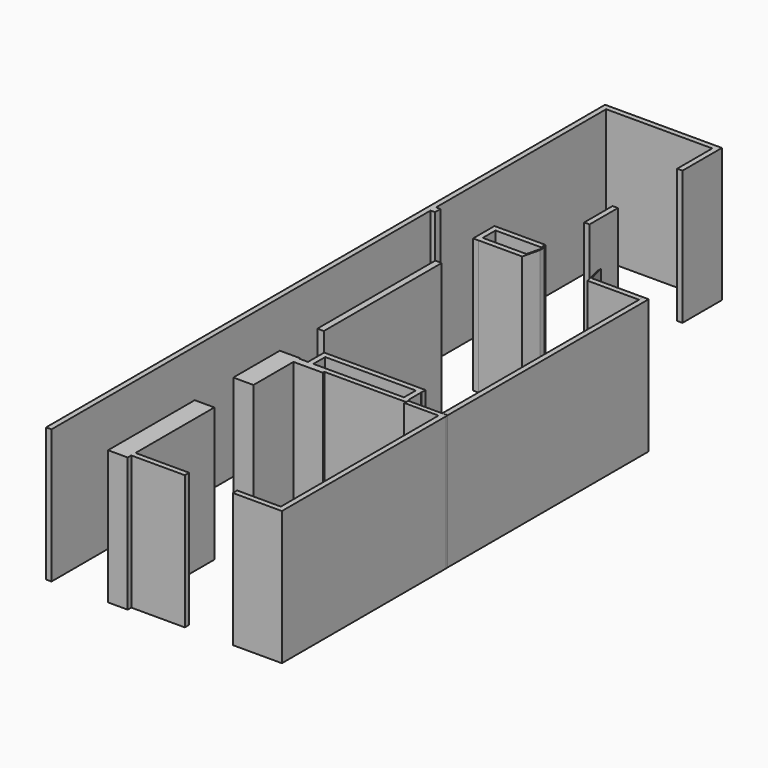
from build123d import *

# Parameters (mm, degrees)
F0_W     = 0.9822489917
F0_H     = 1
F0_W_2   = 1
F0_H_2   = 39.6854430437
F0_W_3   = 0.8165633082
F0_H_3   = 1.2549050152
F0_W_4   = 1.0076368451
F0_H_4   = 88.427413255
F1_DEPTH = 25
F0_W_5   = 8.1607067734
F0_W_6   = 9.6052740701
F0_H_5   = 46.8777269125
F0_W_7   = 1.2060105801
F0_H_6   = 27.5101391599
F0_H_7   = 6.6097080708
F0_H_8   = 2.7701912224
F0_W_8   = 0.1297352612
F0_H_9   = 0.4526546001
F0_W_9   = 0.9778391793
F0_H_10  = 0.0009115074
F0_H_11  = 36.779815495
F0_W_10  = 9.9911410362
F0_W_11  = 2.5544827804


with BuildPart() as f1:
    # F0 (on Top) → F1 (new body)
    with BuildSketch(Plane.XY):
        Polygon((-25.935596019, 68.5887262225), (-26.9178450108, 68.5887262225), (-26.935596019, 68.5887262225), (-26.935596019, 60.3826455772), (-25.935596019, 60.3826455772), align=None)
        Polygon((-26.935596019, 68.5887262225), (-26.9178450108, 68.5887262225), (-26.9178450108, 69.5887262225), (-46.7308796942, 69.5887262225), (-46.7308796942, 68.5887262225), align=None)
        with Locations((-26.4267205149, 69.0887262225)):
            Rectangle(F0_W, F0_H)
        Polygon((-46.7374978364, 68.5887262225), (-46.7308796942, 68.5887262225), (-46.7308796942, 69.5887262225), (-47.7374978364, 69.5887262225), (-47.7374978364, 68.5887262225), align=None)
        with Locations((-47.2374978364, 48.7460047007)):
            Rectangle(F0_W_2, F0_H_2)
        Polygon((-46.7374978364, 27.6483781636), (-46.7374978364, 28.9032831788), (-47.7374978364, 28.9032831788), (-47.7451346815, 28.9032831788), (-47.7451346815, 27.6483781636), align=None)
        with Locations((-46.3292161822, 28.2758306712)):
            Rectangle(F0_W_3, F0_H_3)
        with Locations((-47.2413162589, -16.5653284639)):
            Rectangle(F0_W_4, F0_H_4)
    extrude(amount=F1_DEPTH)


with BuildPart() as f1b:
    # F0 (on Top) → F1, piece 2 (new body)
    with BuildSketch(Plane.XY):
        Polygon((-26.9095953554, 29.6416189522), (-36.4152640104, 29.6416189522), (-36.4152640104, 28.6416189522), (-35.4152640104, 28.6416189522), (-26.9095953554, 28.6416189522), align=None)
        Polygon((-35.4152640104, 28.6416189522), (-36.4152640104, 28.6416189522), (-36.4152640104, 24.6393531561), (-35.4152640104, 24.6393531561), (-35.4152640104, 24.658517912), (-35.4152640104, 25.658517912), align=None)
        with Locations((-31.3349106237, 25.158517912)):
            Rectangle(F0_W_5, F0_H)
        Polygon((-26.4879707247, 28.8592035174), (-27.254557237, 25.658517912), (-27.254557237, 24.658517912), (-26.4879707247, 27.8592035174), align=None)
    extrude(amount=F1_DEPTH)


with BuildPart() as f1c:
    # F0 (on Top) → F1, piece 3 (new body)
    with BuildSketch(Plane.XY):
        Polygon((-15.8707499504, 28.8592035174), (-15.8707499504, 27.8592035174), (-15.051796101, 24.6353933364), (-15.051796101, 25.6353933364), align=None)
        with Locations((-10.249159066, 25.1353933364)):
            Rectangle(F0_W_6, F0_H)
    extrude(amount=F1_DEPTH)


with BuildPart() as f1d:
    # F0 (on Top) → F1, piece 4 (new body)
    with BuildSketch(Plane.XY):
        with Locations((-4.9409140721, 2.1965298802)):
            Rectangle(F0_W_2, F0_H_5)
    extrude(amount=F1_DEPTH)


with BuildPart() as f1e:
    # F0 (on Top) → F1, piece 5 (new body)
    with BuildSketch(Plane.XY):
        with Locations((-35.7350893319, 1.9806777127)):
            Rectangle(F0_W_7, F0_H_6)
    extrude(amount=F1_DEPTH)


with BuildPart() as f1f:
    # F0 (on Top) → F1, piece 6 (new body)
    with BuildSketch(Plane.XY):
        with Locations((-26.4178450108, 42.0074574649)):
            Rectangle(F0_W_2, F0_H_7)
    extrude(amount=F1_DEPTH)


with BuildPart() as f1g:
    # F0 (on Top) → F1, piece 7 (new body)
    with BuildSketch(Plane.XY):
        Polygon((-11.9309797883, -17.0430857688), (-30.8471769094, -17.0430857688), (-30.8471769094, -18.0430857688), (-30.8466330171, -18.0430857688), (-29.8466330171, -18.0430857688), (-12.9449134693, -18.0430857688), (-11.9449134693, -18.0430857688), (-11.9309797883, -18.0430857688), align=None)
        with Locations((-30.3466330171, -19.42818138)):
            Rectangle(F0_W_2, F0_H_8)
        with Locations((-12.4449134693, -19.42818138)):
            Rectangle(F0_W_2, F0_H_8)
        Polygon((-29.8466330171, -20.8132769912), (-30.8466330171, -20.8132769912), (-32.5041981414, -20.8132769912), (-32.5041981414, -22.1292804927), (-27.0190900192, -22.1292804927), (-27.0190900192, -21.7722989619), (-27.0190900192, -20.8132769912), align=None)
        with Locations((-11.8800458387, -21.0396042913)):
            Rectangle(F0_W_8, F0_H_9)
        with Locations((-12.4449134693, -21.0396042913)):
            Rectangle(F0_W_2, F0_H_9)
        Polygon((-32.5041981414, -22.1292804927), (-32.5041981414, -20.8132769912), (-32.5041981414, -20.6163469702), (-36.2664051354, -20.6163469702), (-36.2664051354, -31.4594507217), (-32.5041981414, -31.4594507217), align=None)
        Polygon((-12.9449134693, -21.2659315914), (-12.9449134693, -20.8132769912), (-27.0190900192, -20.8132769912), (-27.0190900192, -21.7722989619), (-11.8151782081, -21.7722989619), (-11.8151782081, -21.6418225318), (-12.9449134693, -21.6418225318), align=None)
        Polygon((-11.8151782081, -21.2659315914), (-11.9449134693, -21.2659315914), (-12.9449134693, -21.2659315914), (-12.9449134693, -21.6418225318), (-11.8151782081, -21.6409110244), align=None)
        Polygon((-4.4409140721, -21.2659315914), (-11.8151782081, -21.2659315914), (-11.8151782081, -21.6409110244), (-5.4187532514, -21.6409110244), (-4.4409140721, -21.6409110244), align=None)
        Polygon((-11.8151782081, -21.6418225318), (-11.8151782081, -21.7722989619), (-11.8151782081, -22.1594162285), (-5.4187532514, -22.1594162285), (-5.4187532514, -21.6418225318), align=None)
        Polygon((-4.4187532514, -21.6409110244), (-4.4409140721, -21.6409110244), (-4.4409140721, -21.6418225318), (-5.4187532514, -21.6418225318), (-5.4187532514, -22.1594162285), (-4.4187532514, -22.1594162285), align=None)
        with Locations((-4.9298336618, -21.6413667781)):
            Rectangle(F0_W_9, F0_H_10)
        with Locations((-4.9187532514, -40.549323976)):
            Rectangle(F0_W_2, F0_H_11)
        Polygon((-4.4187532514, -58.9392317235), (-5.4187532514, -58.9392317235), (-13.5648781434, -58.9392317235), (-13.5648781434, -59.9392317235), (-4.4187532514, -59.9392317235), align=None)
    extrude(amount=F1_DEPTH)


with BuildPart() as f1h:
    # F0 (on Top) → F1, piece 8 (new body)
    with BuildSketch(Plane.XY):
        with Locations((-27.5295078754, -59.4392317235)):
            Rectangle(F0_W_10, F0_H)
        with Locations((-33.8023197837, -59.4392317235)):
            Rectangle(F0_W_11, F0_H)
        Polygon((-35.0795611739, -58.9392317235), (-32.5250783935, -58.9392317235), (-32.5250783935, -40.5536033213), (-36.1894406378, -40.5536033213), (-36.1894406378, -60.770124197), (-32.5250783935, -60.770124197), (-32.5250783935, -59.9392317235), (-35.0795611739, -59.9392317235), align=None)
    extrude(amount=F1_DEPTH)


solid = Compound([f1.part, f1b.part, f1c.part, f1d.part, f1e.part, f1f.part, f1g.part, f1h.part])
